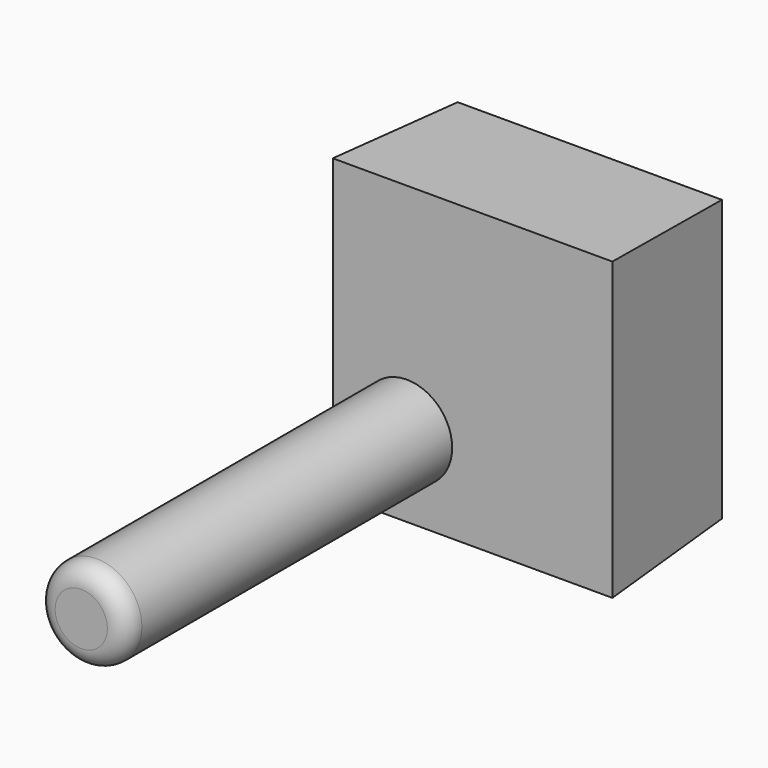
from build123d import *

# Parameters (mm, degrees)
F0_W     = 76.0293379426
F0_H     = 80.7674229145
F1_DEPTH = 42.164
F1_TAPER = -3
F2_R     = 13.0264691776
F3_DEPTH = 117.094
F4_R     = 5.5188922036


with BuildPart() as f1:
    # F0 (on Front) → F1 (new body)
    with BuildSketch(Plane.XZ):
        with Locations((-6.2791183591, 2.6857145131)):
            Rectangle(F0_W, F0_H)
    extrude(amount=F1_DEPTH, taper=F1_TAPER)

    # F2 (on face) → F3 (join)
    with BuildSketch(Plane.XZ.offset(42.164)):
        with Locations((-25.1841899008, -16.8737992644)):
            Circle(F2_R)
    extrude(amount=F3_DEPTH)

    # F4
    f4_edges = [f1.edges().sort_by_distance(p)[0] for p in [
        (-38.210659, -159.258, -16.873799),
    ]]
    fillet(f4_edges, radius=F4_R)


solid = f1.part
